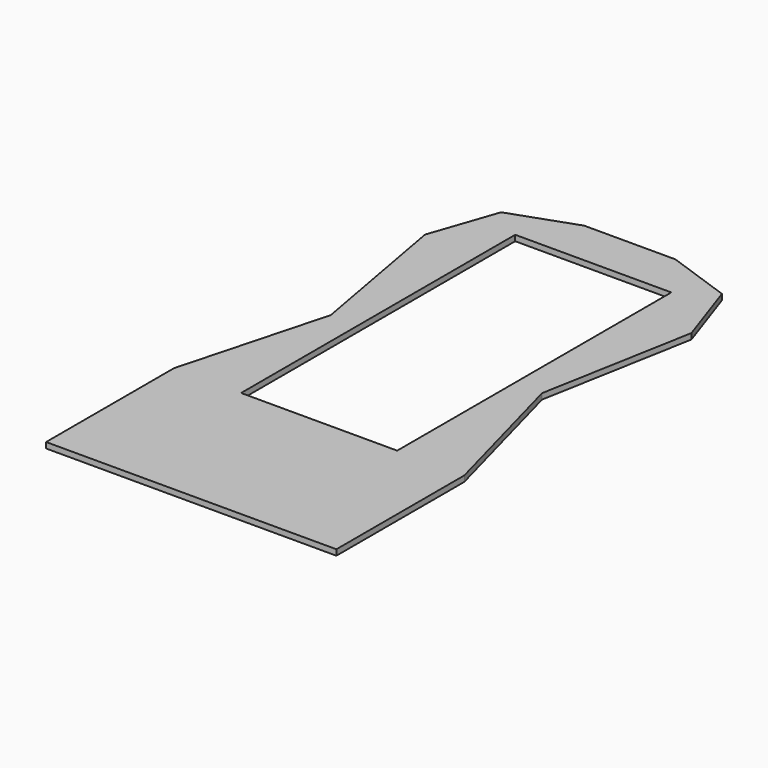
from build123d import *

# Parameters (mm, degrees)
F1_DEPTH = 19.05


with BuildPart() as f1:
    # F0 (on Top) → F1 (new body)
    with BuildSketch(Plane.XY):
        Polygon((0, 353.826709), (0, 506.226709), (-152.4, 506.226709), (-368.3, 430.026709), (-444.5, 207.776709), (-352.425, -300.223291), (-484.243068, -789.173291), (-484.243068, -1322.573291), (0, -1322.573291), (0, -789.173291), (-260.35, -789.173291), (-260.35, 353.826709), align=None)
        Polygon((152.4, 506.226709), (0, 506.226709), (0, 353.826709), (260.35, 353.826709), (260.35, -789.173291), (0, -789.173291), (0, -1322.573291), (484.243068, -1322.573291), (484.243068, -789.173291), (352.425, -300.223291), (444.5, 207.776709), (368.3, 430.026709), align=None)
    extrude(amount=F1_DEPTH)


solid = f1.part
